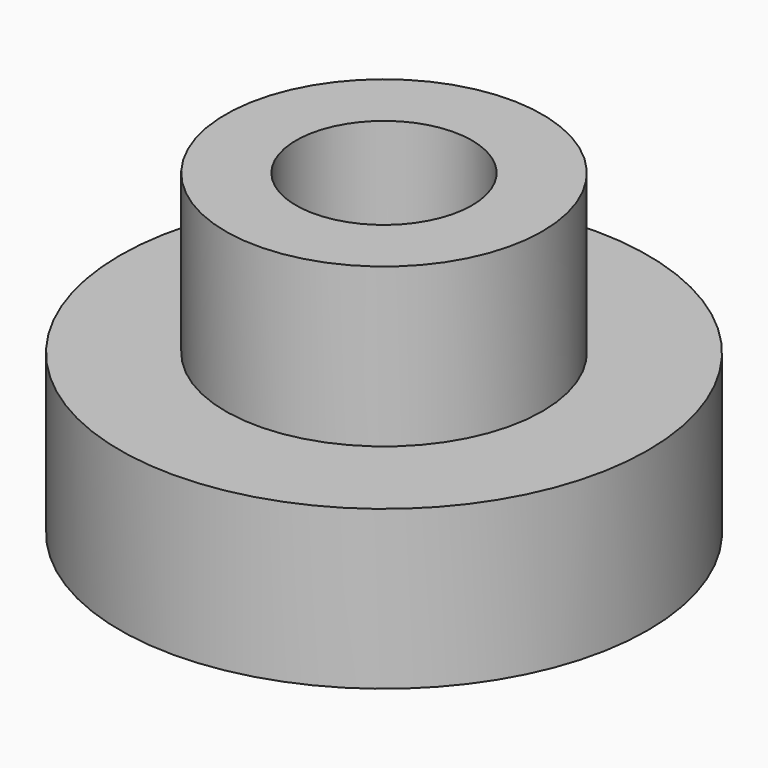
from build123d import *

# Parameters (mm, degrees)
F0_R     = 4.5
F0_R_2   = 2.5
F1_DEPTH = 9
F0_R_3   = 7.5
F2_DEPTH = 4.5
F3_DEPTH = 0.4


with BuildPart() as f1:
    # F0 (on Top) → F1 (new body)
    with BuildSketch(Plane.XY):
        Circle(F0_R)
        Circle(F0_R_2, mode=Mode.SUBTRACT)
    extrude(amount=F1_DEPTH)

    # F0 (on Top) → F2 (join)
    with BuildSketch(Plane.XY):
        Circle(F0_R_3)
        Circle(F0_R, mode=Mode.SUBTRACT)
    extrude(amount=F2_DEPTH)

    # F0 (on Top) → F3 (cut)
    with BuildSketch(Plane.XY):
        Circle(F0_R)
        Circle(F0_R_2, mode=Mode.SUBTRACT)
    extrude(amount=F3_DEPTH, mode=Mode.SUBTRACT)


solid = f1.part
